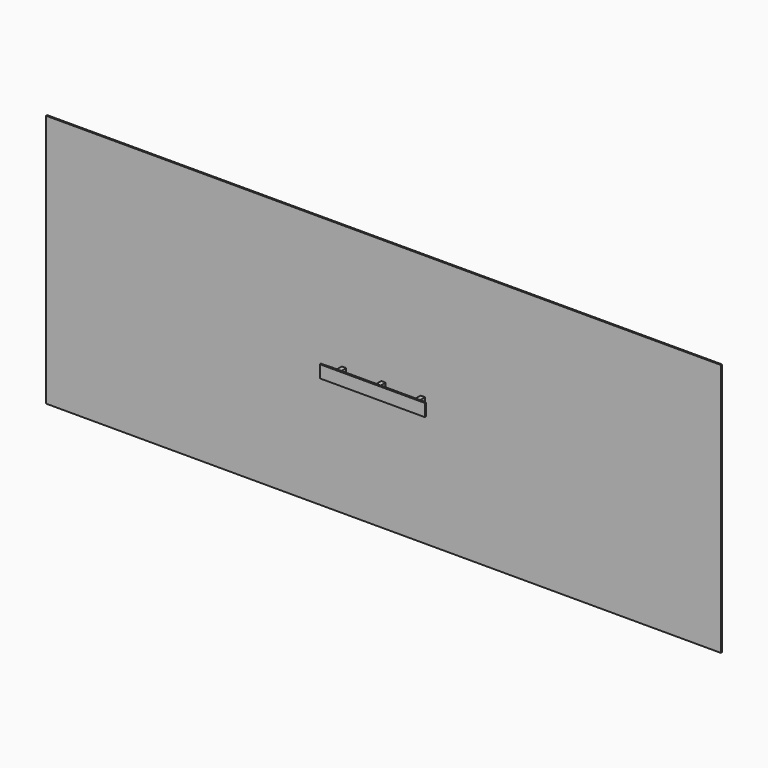
from build123d import *

# Parameters (mm, degrees)
F0_W     = 20.32
F0_H     = 20.32
F1_DEPTH = 63.5
F2_W     = 482.6
F2_H     = 57.15
F3_DEPTH = 6.35
F5_W     = 457.2
F5_H     = 38.1
F5_W_2   = 3
F5_H_2   = 1
F5_W_3   = 1
F5_H_3   = 3
F5_W_4   = 20.32
F5_H_4   = 20.32
F5_W_5   = 147.955
F6_DEPTH = 12.7
F7_R     = 12.7
F8_W     = 3097.7175235748
F8_H     = 1163.6712551117
F9_DEPTH = 6.35


with BuildPart() as f1:
    # F0 (on Front) → F1 (new body)
    with BuildSketch(Plane.XZ):
        Rectangle(F0_W, F0_H)
    extrude(amount=F1_DEPTH)


with BuildPart() as f1b:
    # F0 (on Front) → F1, piece 2 (new body)
    with BuildSketch(Plane.XZ):
        with Locations((180.975, 0)):
            Rectangle(F0_W, F0_H)
    extrude(amount=F1_DEPTH)


with BuildPart() as f1c:
    # F0 (on Front) → F1, piece 3 (new body)
    with BuildSketch(Plane.XZ):
        with Locations((-180.975, 0)):
            Rectangle(F0_W, F0_H)
    extrude(amount=F1_DEPTH)


with BuildPart() as f3:
    # F2 (on face) → F3 (new body)
    with BuildSketch(Plane.XZ.offset(63.5)):
        Rectangle(F2_W, F2_H)
    extrude(amount=F3_DEPTH)


with BuildPart() as f6:
    # F5 (on offset) → F6 (new body)
    with BuildSketch(Plane(origin=(0, -60.5, 0), x_dir=(-1, 0, 0), z_dir=(0, 1, 0))):
        Rectangle(F5_W, F5_H)
        with Locations((-208.51, -16.01)):
            Rectangle(F5_W_2, F5_H_2, mode=Mode.SUBTRACT)
        with Locations((-145.01, -16.01)):
            Rectangle(F5_W_2, F5_H_2, mode=Mode.SUBTRACT)
        with Locations((-81.51, -16.01)):
            Rectangle(F5_W_2, F5_H_2, mode=Mode.SUBTRACT)
        with Locations((-18.01, -16.01)):
            Rectangle(F5_W_2, F5_H_2, mode=Mode.SUBTRACT)
        with Locations((18.01, -16.01)):
            Rectangle(F5_W_2, F5_H_2, mode=Mode.SUBTRACT)
        with Locations((81.51, -16.01)):
            Rectangle(F5_W_2, F5_H_2, mode=Mode.SUBTRACT)
        with Locations((145.01, -16.01)):
            Rectangle(F5_W_2, F5_H_2, mode=Mode.SUBTRACT)
        with Locations((208.51, -16.01)):
            Rectangle(F5_W_2, F5_H_2, mode=Mode.SUBTRACT)
        with Locations((-226.06, 0)):
            Rectangle(F5_W_3, F5_H_3, mode=Mode.SUBTRACT)
        with Locations((-180.975, 0)):
            Rectangle(F5_W_4, F5_H_4, mode=Mode.SUBTRACT)
        with Locations((-90.4875, 0)):
            Rectangle(F5_W_5, F5_H_4, mode=Mode.SUBTRACT)
        with Locations((-208.51, 16.01)):
            Rectangle(F5_W_2, F5_H_2, mode=Mode.SUBTRACT)
        with Locations((-145.01, 16.01)):
            Rectangle(F5_W_2, F5_H_2, mode=Mode.SUBTRACT)
        with Locations((-81.51, 16.01)):
            Rectangle(F5_W_2, F5_H_2, mode=Mode.SUBTRACT)
        with Locations((-18.01, 16.01)):
            Rectangle(F5_W_2, F5_H_2, mode=Mode.SUBTRACT)
        Rectangle(F5_W_4, F5_H_4, mode=Mode.SUBTRACT)
        with Locations((90.4875, 0)):
            Rectangle(F5_W_5, F5_H_4, mode=Mode.SUBTRACT)
        with Locations((180.975, 0)):
            Rectangle(F5_W_4, F5_H_4, mode=Mode.SUBTRACT)
        with Locations((226.06, 0)):
            Rectangle(F5_W_3, F5_H_3, mode=Mode.SUBTRACT)
        with Locations((18.01, 16.01)):
            Rectangle(F5_W_2, F5_H_2, mode=Mode.SUBTRACT)
        with Locations((81.51, 16.01)):
            Rectangle(F5_W_2, F5_H_2, mode=Mode.SUBTRACT)
        with Locations((145.01, 16.01)):
            Rectangle(F5_W_2, F5_H_2, mode=Mode.SUBTRACT)
        with Locations((208.51, 16.01)):
            Rectangle(F5_W_2, F5_H_2, mode=Mode.SUBTRACT)
    extrude(amount=F6_DEPTH)

    # F7
    f7_edges = [f6.edges().sort_by_distance(p)[0] for p in [
        (228.6, -54.15, 19.05),
        (228.6, -54.15, -19.05),
        (-228.6, -54.15, 19.05),
        (-228.6, -54.15, -19.05),
    ]]
    fillet(f7_edges, radius=F7_R)


with BuildPart() as f9:
    # F8 (on Front) → F9 (new body)
    with BuildSketch(Plane.XZ):
        Rectangle(F8_W, F8_H)
    extrude(amount=F9_DEPTH)


solid = Compound([f1.part, f1b.part, f1c.part, f3.part, f6.part, f9.part])
